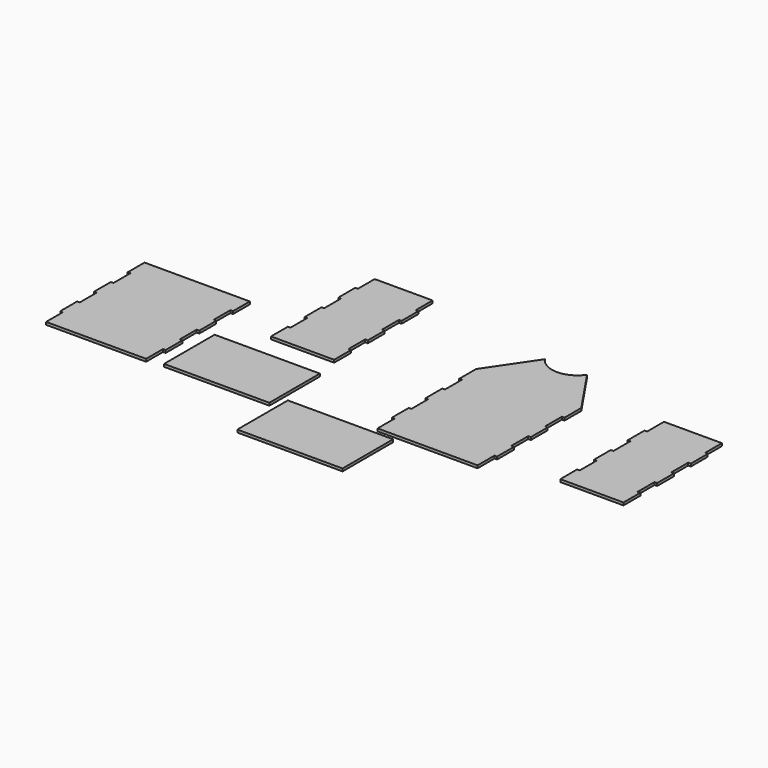
from build123d import *

# Parameters (mm, degrees)
F0_W     = 3.175
F0_H     = 25.4
F0_W_2   = 127
F0_H_2   = 76.2
F1_DEPTH = 3.175


with BuildPart() as f1:
    # F0 (on Top) → F1 (new body)
    with BuildSketch(Plane.XY):
        with BuildLine():
            Line((-123.825, 25.4), (-123.825, 0))
            Line((-123.825, 0), (-3.175, 0))
            Line((-3.175, 0), (-3.175, 25.4))
            Line((-3.175, 25.4), (-3.175, 50.8))
            Line((-3.175, 50.8), (-3.175, 76.2))
            Line((-3.175, 76.2), (0, 76.2))
            Line((0, 76.2), (0, 101.6))
            Line((0, 101.6), (-3.175, 101.6))
            Line((-3.175, 101.6), (-3.175, 127))
            Line((-3.175, 127), (0, 127))
            Line((0, 127), (0, 152.4))
            Line((0, 152.4), (-38.1, 208.66995))
            ThreePointArc((-38.1, 208.66995), (-63.5, 195.193422), (-88.9, 208.66995))
            Line((-88.9, 208.66995), (-127, 152.4))
            Line((-127, 152.4), (-127, 127))
            Line((-127, 127), (-123.825, 127))
            Line((-123.825, 127), (-123.825, 101.6))
            Line((-123.825, 101.6), (-127, 101.6))
            Line((-127, 101.6), (-127, 76.2))
            Line((-127, 76.2), (-123.825, 76.2))
            Line((-123.825, 76.2), (-123.825, 50.8))
            Line((-123.825, 50.8), (-127, 50.8))
            Line((-127, 50.8), (-127, 25.4))
            Line((-127, 25.4), (-123.825, 25.4))
        make_face()
        with Locations((-1.5875, 38.1)):
            Rectangle(F0_W, F0_H)
        Polygon((-246.380082, 236.144556), (-316.230082, 236.144556), (-316.230082, 210.744556), (-319.405082, 210.744556), (-319.405082, 185.344556), (-316.230082, 185.344556), (-316.230082, 159.944556), (-319.405082, 159.944556), (-319.405082, 134.544556), (-316.230082, 134.544556), (-316.230082, 109.144556), (-319.405082, 109.144556), (-319.405082, 83.744556), (-243.205082, 83.744556), (-243.205082, 109.144556), (-246.380082, 109.144556), (-246.380082, 134.544556), (-243.205082, 134.544556), (-243.205082, 159.944556), (-246.380082, 159.944556), (-246.380082, 185.344556), (-243.205082, 185.344556), (-243.205082, 210.744556), (-246.380082, 210.744556), align=None)
        with Locations((-162.01187, -46.360558)):
            Rectangle(F0_W_2, F0_H_2)
        Polygon((-379.561812, 127), (-506.561812, 127), (-506.561812, 101.6), (-503.386812, 101.6), (-503.386812, 76.2), (-506.561812, 76.2), (-506.561812, 50.8), (-503.386812, 50.8), (-503.386812, 25.4), (-506.561812, 25.4), (-506.561812, 0), (-503.386812, 0), (-503.386812, -25.4), (-382.736812, -25.4), (-382.736812, 0), (-379.561812, 0), (-379.561812, 25.4), (-382.736812, 25.4), (-382.736812, 50.8), (-379.561812, 50.8), (-379.561812, 76.2), (-382.736812, 76.2), (-382.736812, 101.6), (-379.561812, 101.6), align=None)
        with Locations((-299.579901, 15.218221)):
            Rectangle(F0_W_2, F0_H_2)
        Polygon((148.28359, 179.055724), (78.43359, 179.055724), (78.43359, 153.655724), (75.25859, 153.655724), (75.25859, 128.255724), (78.43359, 128.255724), (78.43359, 102.855724), (75.25859, 102.855724), (75.25859, 77.455724), (78.43359, 77.455724), (78.43359, 52.055724), (75.25859, 52.055724), (75.25859, 26.655724), (151.45859, 26.655724), (151.45859, 52.055724), (148.28359, 52.055724), (148.28359, 77.455724), (151.45859, 77.455724), (151.45859, 102.855724), (148.28359, 102.855724), (148.28359, 128.255724), (151.45859, 128.255724), (151.45859, 153.655724), (148.28359, 153.655724), align=None)
    extrude(amount=F1_DEPTH)


solid = f1.part
